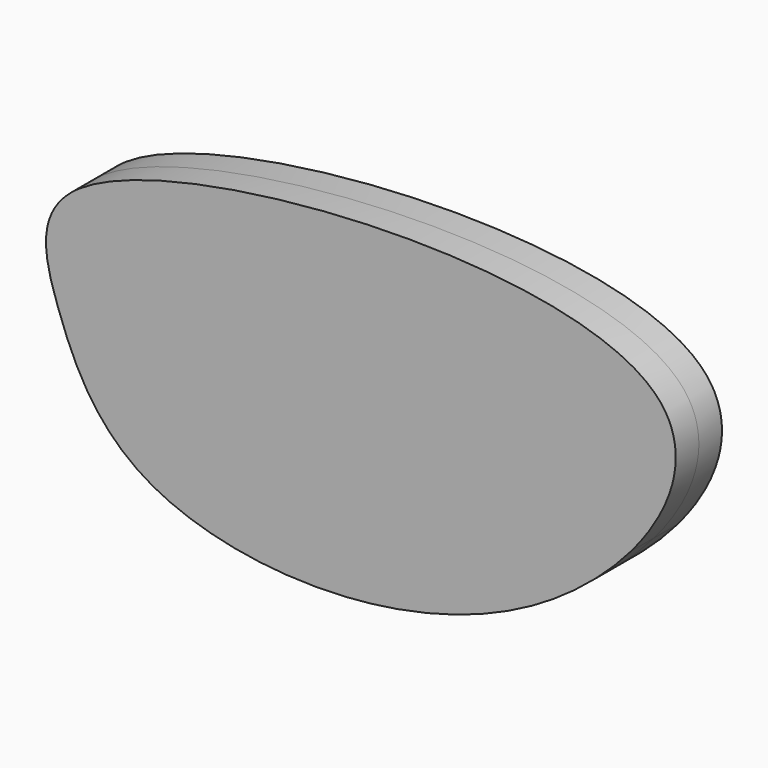
from build123d import *

# Parameters (mm, degrees)
F1_DEPTH = 3.81


with BuildPart() as f1:
    # F0 (on Front) → F1 (new body, symmetric)
    with BuildSketch(Plane.XZ):
        with BuildLine():
            add(Edge.make_bspline(
                [(-3.3592153029, 20.114979987), (-6.8504877453, 16.0094498257), (-18.4079911976, 6.6593496766), (-32.8135138593, 3.0874366389), (-40.8954872018, 2.5761741089)],
                knots=[0.4115937464, 0.4115937464, 0.4115937464, 0.4115937464, 0.4851517271, 0.5901219019, 0.5901219019, 0.5901219019, 0.5901219019], degree=3))
            add(Edge.make_bspline(
                [(-36.6568307247, 12.1914259236), (-30.6486980251, 16.2774417488), (-17.3343255861, 19.1636917052), (-3.3592153048, 20.1149799915)],
                knots=[0, 0, 0, 0, 0.1278956006, 0.1278956006, 0.1278956006, 0.1278956006], degree=3))
            add(Edge.make_bspline(
                [(-40.8954872053, 2.576174108), (-41.4479875436, 6.0867174365), (-40.7380432441, 9.4158715586), (-36.6568307247, 12.1914259236)],
                knots=[0.9131229032, 0.9131229032, 0.9131229032, 0.9131229032, 1, 1, 1, 1], degree=3))
        make_face()
        with BuildLine():
            add(Edge.make_bspline(
                [(-76.1079117656, 38.5431684554), (-62.4773288295, 47.8130665032), (10.2016094215, 52.2030804941), (2.4046008218, 26.8928872785), (-3.3592153029, 20.114979987)],
                knots=[0, 0, 0, 0, 0.2901553076, 0.4115937464, 0.4115937464, 0.4115937464, 0.4115937464], degree=3))
            add(Edge.make_bspline(
                [(-40.8954872018, 2.5761741089), (-50.8508917239, 1.9463990418), (-71.1835766287, 5.8129647851), (-79.1669210684, 22.793330039), (-82.1768176013, 34.4158219858), (-76.1079117656, 38.5431684554)],
                knots=[0.5901219019, 0.5901219019, 0.5901219019, 0.5901219019, 0.7194245497, 0.8708107168, 1, 1, 1, 1], degree=3))
            add(Edge.make_bspline(
                [(-40.8954872053, 2.576174108), (-41.4479875436, 6.0867174365), (-40.7380432441, 9.4158715586), (-36.6568307247, 12.1914259236)],
                knots=[0.9131229032, 0.9131229032, 0.9131229032, 0.9131229032, 1, 1, 1, 1], degree=3))
            add(Edge.make_bspline(
                [(-36.6568307247, 12.1914259236), (-30.6486980251, 16.2774417488), (-17.3343255861, 19.1636917052), (-3.3592153048, 20.1149799915)],
                knots=[0, 0, 0, 0, 0.1278956006, 0.1278956006, 0.1278956006, 0.1278956006], degree=3))
        make_face()
    extrude(amount=F1_DEPTH, both=True)


solid = f1.part
